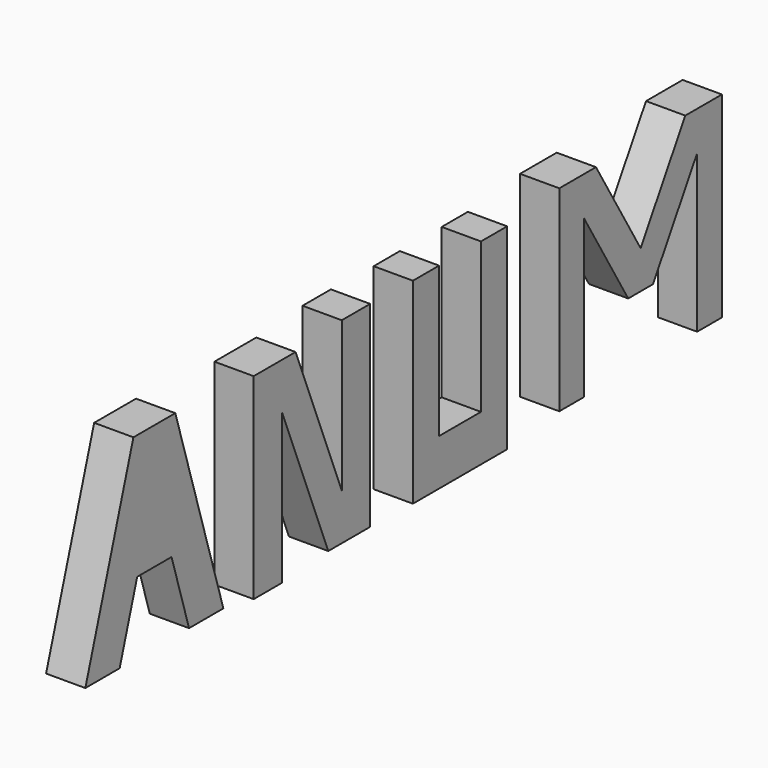
from build123d import *

# Parameters (mm, degrees)
F1_DEPTH = 7.62


with BuildPart() as f1:
    # F0 (on Right) → F1 (new body)
    with BuildSketch(Plane.YZ):
        Polygon((-63.500268, 29.690138), (-75.161205, -8.409862), (-66.836323, -8.409862), (-62.582709, 5.488051), (-54.257827, 5.488051), (-50.004213, -8.409862), (-41.679331, -8.409862), (-53.340268, 29.690138), align=None)
        Polygon((-34.327325, 28.279278), (-34.327325, -9.820722), (-27.445875, -9.820722), (-27.445875, 19.32153), (-16.230407, -8.957748), (-6.070407, -8.957748), (-6.070407, 29.142252), (-12.951858, 29.142252), (-12.951858, 0), (-24.167325, 28.279278), align=None)
        Polygon((10.649881, 28.884476), (4.299881, 28.884476), (4.299881, -9.215524), (27.159881, -9.215524), (27.159881, 28.884476), (20.809881, 28.884476), (20.809881, -0.234962), (10.649881, -0.234962), align=None)
        Polygon((39.814054, 30.23471), (39.814054, -7.86529), (45.826401, -7.86529), (45.826401, 22.643001), (56.53146, 4.611597), (62.543807, 4.611597), (73.248865, 22.643001), (73.248865, -7.86529), (79.261212, -7.86529), (79.261212, 30.23471), (70.371212, 30.23471), (59.537633, 11.986829), (48.704054, 30.23471), align=None)
    extrude(amount=F1_DEPTH)


solid = f1.part
